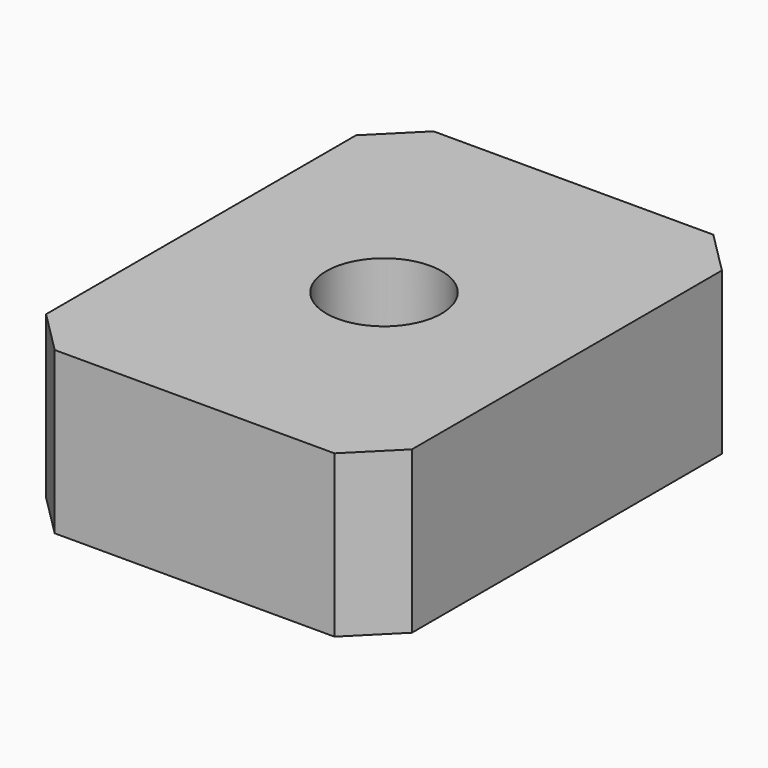
from build123d import *

# Parameters (mm, degrees)
F0_W     = 21.59
F0_H     = 27.94
F1_DEPTH = 9.525
F2_SIZE2 = 2.54
F2_SIZE  = 2.54
F3_R     = 3.302
F4_DEPTH = 9.526
F6_D     = 6.8


with BuildPart() as f1:
    # F0 (on Top) → F1 (new body)
    with BuildSketch(Plane.XY):
        Rectangle(F0_W, F0_H)
    extrude(amount=F1_DEPTH)

    # F2
    f2_edges = [f1.edges().sort_by_distance(p)[0] for p in [
        (-10.795, 13.97, 4.7625),
        (-10.795, -13.97, 4.7625),
        (10.795, -13.97, 4.7625),
        (10.795, 13.97, 4.7625),
    ]]
    chamfer(f2_edges, length=F2_SIZE, length2=F2_SIZE2)

    # F3 (on face) → F4 (cut, through all)
    with BuildSketch(Plane.XY.offset(9.525)):
        Circle(F3_R)
    extrude(amount=-F4_DEPTH, mode=Mode.SUBTRACT)

    # F6 (through all)
    with Locations(Plane.XY.offset(9.525)):
        with Locations((0, 0)):
            Hole(F6_D / 2)


solid = f1.part
